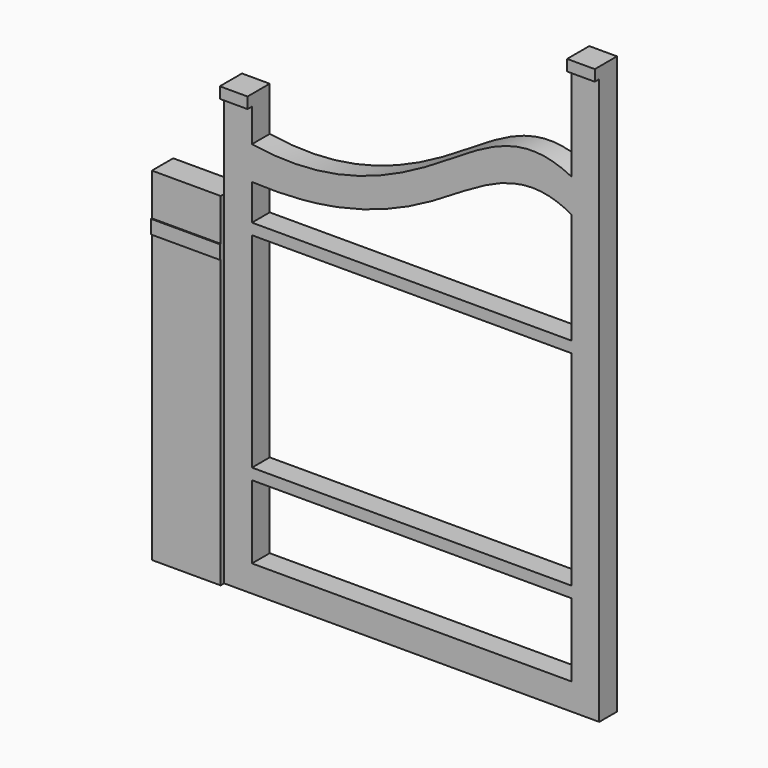
from build123d import *

# Parameters (mm, degrees)
F0_W     = 1.524
F0_H     = 2.54
F0_W_2   = 18.542
F0_W_3   = 53.086
F1_DEPTH = 5.08
F0_W_4   = 6.35
F0_W_5   = 15.748
F0_H_2   = 3.1443536282
F2_DEPTH = 6.35
F0_H_3   = 9.6294713412
F0_H_4   = 65.7186827598
F3_DEPTH = 6.096
F4_DEPTH = 5.08
F5_DEPTH = 5.08
F6_DEPTH = 5.08


with BuildPart() as f1:
    # F0 (on Front) → F1 (new body)
    with BuildSketch(Plane.XZ):
        with BuildLine():
            add(Edge.make_bspline(
                [(-61.3806553816, 58.2051597101), (-43.8441733015, 55.3503870336), (-19.0644229117, 65.9568732466), (0, 81.5450566713), (11.7713446184, 75.4133064361)],
                knots=[0, 0, 0, 0, 0.5425588266, 1, 1, 1, 1], degree=3))
            Line((-61.3806553816, 58.2051597101), (-61.3806553816, 50.5851597101))
            add(Edge.make_bspline(
                [(-61.3806553816, 50.5851597101), (-54.5700391068, 50.2481911872), (-48.4601444481, 50.6597637989), (-42.8386553816, 51.696558085)],
                knots=[0, 0, 0, 0, 0.2106262028, 0.2106262028, 0.2106262028, 0.2106262028], degree=3))
            add(Edge.make_bspline(
                [(-42.8386553816, 51.696558085), (-42.3266573649, 51.7909879792), (-41.8187108352, 51.8906042954), (-41.3146553816, 51.9953138621)],
                knots=[0.2106262028, 0.2106262028, 0.2106262028, 0.2106262028, 0.2298097673, 0.2298097673, 0.2298097673, 0.2298097673], degree=3))
            add(Edge.make_bspline(
                [(-41.3146553816, 51.9953138621), (-33.2393780699, 53.6728252996), (-15.5050873091, 61.1527435678), (0.0995686219, 74.4364412814), (11.7713446184, 67.7933064361)],
                knots=[0.2298097673, 0.2298097673, 0.2298097673, 0.2298097673, 0.5371422287, 1, 1, 1, 1], degree=3))
            Line((11.7713446184, 67.7933064361), (11.7713446184, 75.4133064361))
        make_face()
        Polygon((-67.7306553816, 65.7861350714), (-67.7306553816, 46.1095218752), (-67.7306553816, 36.480050534), (-67.7306553816, 33.3356969059), (-67.7306553816, -32.382985854), (-61.3806553816, -32.382985854), (-61.3806553816, -26.2942135113), (-61.3806553816, -9.522985854), (-61.3806553816, -6.982985854), (-61.3806553816, -1.905), (-61.3806553816, -0.9525), (-61.3806553816, 0), (-61.3806553816, 10.16), (-61.3806553816, 11.1125), (-61.3806553816, 12.065), (-61.3806553816, 20.997421816), (-61.3806553816, 22.267421816), (-61.3806553816, 39.8533064361), (-61.3806553816, 42.3933064361), (-61.3806553816, 42.9651597101), (-61.3806553816, 50.5851597101), (-61.3806553816, 58.2051597101), (-61.3806553816, 65.7861350714), align=None)
        Polygon((-61.3806553816, -26.2942135113), (-61.3806553816, -32.382985854), (11.7713446184, -32.382985854), (11.7713446184, -26.2942135113), (-41.3146553816, -26.2942135113), (-42.8386553816, -26.2942135113), align=None)
        Polygon((11.7713446184, 97.157014146), (11.7713446184, 75.4133064361), (11.7713446184, 67.7933064361), (11.7713446184, 46.1095218752), (11.7713446184, 42.3933064361), (11.7713446184, 39.8533064361), (11.7713446184, 22.267421816), (11.7713446184, 20.997421816), (11.7713446184, 19.2415746087), (11.7713446184, 17.9715746087), (11.7713446184, 12.065), (11.7713446184, 11.1125), (11.7713446184, 10.16), (11.7713446184, 0), (11.7713446184, -0.9525), (11.7713446184, -1.905), (11.7713446184, -6.982985854), (11.7713446184, -9.522985854), (11.7713446184, -26.2942135113), (11.7713446184, -32.382985854), (18.1213446184, -32.382985854), (18.1213446184, 97.157014146), align=None)
        with Locations((-42.0766553816, -8.252985854)):
            Rectangle(F0_W, F0_H)
        with Locations((-52.1096553816, -8.252985854)):
            Rectangle(F0_W_2, F0_H)
        with Locations((-14.7716553816, -8.252985854)):
            Rectangle(F0_W_3, F0_H)
        with Locations((-14.7716553816, 41.1233064361)):
            Rectangle(F0_W_3, F0_H)
        with Locations((-52.1096553816, 41.1233064361)):
            Rectangle(F0_W_2, F0_H)
        with Locations((-42.0766553816, 41.1233064361)):
            Rectangle(F0_W, F0_H)
    extrude(amount=F1_DEPTH)

    # F0 (on Front) → F2 (join)
    with BuildSketch(Plane.XZ):
        with Locations((-64.5556553816, 67.0561350714)):
            Rectangle(F0_W_4, F0_H)
        with Locations((14.9463446184, 98.427014146)):
            Rectangle(F0_W_4, F0_H)
        with Locations((-75.6046553816, 34.9078737199)):
            Rectangle(F0_W_5, F0_H_2)
    extrude(amount=F2_DEPTH)

    # F0 (on Front) → F3 (join)
    with BuildSketch(Plane.XZ):
        with Locations((-75.6046553816, 41.2947862046)):
            Rectangle(F0_W_5, F0_H_3)
        with Locations((-75.6046553816, 0.4763555259)):
            Rectangle(F0_W_5, F0_H_4)
    extrude(amount=F3_DEPTH)

    # F0 (on Front) → F4 (cut)
    with BuildSketch(Plane.XZ):
        with Locations((-52.1096553816, 41.1233064361)):
            Rectangle(F0_W_2, F0_H)
        with Locations((-42.0766553816, 41.1233064361)):
            Rectangle(F0_W, F0_H)
        with Locations((-14.7716553816, 41.1233064361)):
            Rectangle(F0_W_3, F0_H)
    extrude(amount=F4_DEPTH, mode=Mode.SUBTRACT)

    # F0 (on Front) → F5 (cut)
    with BuildSketch(Plane.XZ):
        with Locations((-52.1096553816, -8.252985854)):
            Rectangle(F0_W_2, F0_H)
        with Locations((-42.0766553816, -8.252985854)):
            Rectangle(F0_W, F0_H)
        with Locations((-14.7716553816, -8.252985854)):
            Rectangle(F0_W_3, F0_H)
    extrude(amount=F5_DEPTH, mode=Mode.SUBTRACT)

    # F0 (on Front) → F6 (join)
    with BuildSketch(Plane.XZ):
        with Locations((-14.7716553816, 41.1233064361)):
            Rectangle(F0_W_3, F0_H)
        with Locations((-52.1096553816, 41.1233064361)):
            Rectangle(F0_W_2, F0_H)
        with Locations((-42.0766553816, 41.1233064361)):
            Rectangle(F0_W, F0_H)
        with Locations((-52.1096553816, -8.252985854)):
            Rectangle(F0_W_2, F0_H)
        with Locations((-14.7716553816, -8.252985854)):
            Rectangle(F0_W_3, F0_H)
        with Locations((-42.0766553816, -8.252985854)):
            Rectangle(F0_W, F0_H)
    extrude(amount=F6_DEPTH)


solid = f1.part
